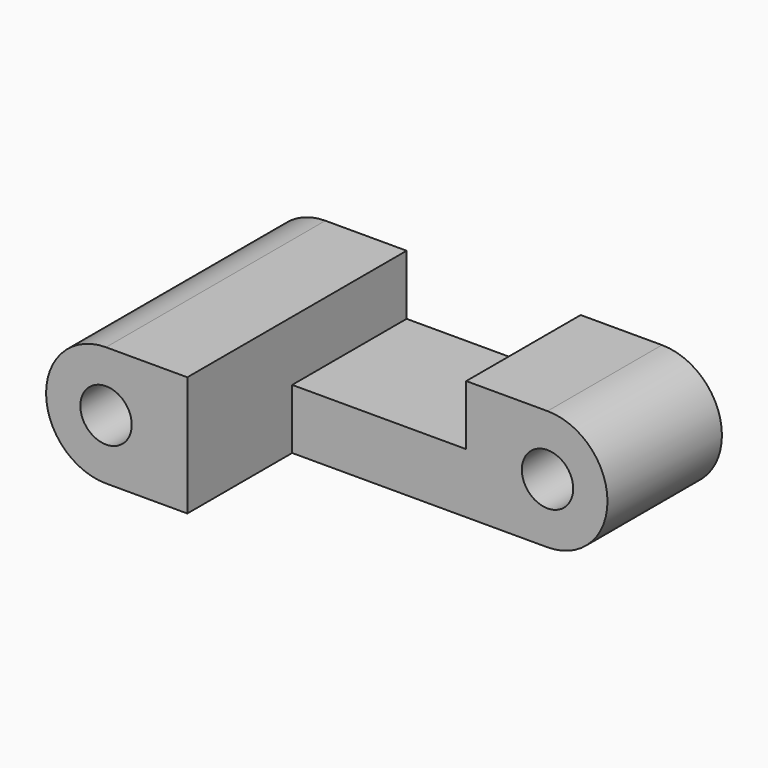
from build123d import *

# Parameters (mm, degrees)
F0_R     = 1.5
F1_DEPTH = 8
F2_W     = 14.905
F2_H     = 7.65
F3_DEPTH = 7.001
F4_W     = 10.16
F4_H     = 12.091013
F5_DEPTH = 8.351


with BuildPart() as f1:
    # F0 (on Front) → F1 (new body, symmetric)
    with BuildSketch(Plane.XZ):
        with BuildLine():
            Line((9.825, 3.5), (-9.825, 3.5))
            ThreePointArc((-9.825, 3.5), (-13.325, 0), (-9.825, -3.5))
            Line((-9.825, -3.5), (9.825, -3.5))
            ThreePointArc((9.825, -3.5), (13.325, 0), (9.825, 3.5))
        make_face()
        with Locations((-9.825, 0)):
            Circle(F0_R, mode=Mode.SUBTRACT)
        with Locations((9.825, 0)):
            Circle(F0_R, mode=Mode.SUBTRACT)
    extrude(amount=F1_DEPTH, both=True)

    # F2 (on face) → F3 (cut, through all)
    with BuildSketch(Plane.XY.offset(3.5)):
        Polygon((27.112617, -0.35), (9.825, -0.35), (9.825, -8), (-5.08, -8), (-5.08, -17.684488), (27.112617, -17.684488), align=None)
        with Locations((2.3725, -4.175)):
            Rectangle(F2_W, F2_H)
    extrude(amount=-F3_DEPTH, mode=Mode.SUBTRACT)

    # F4 (on face) → F5 (cut, through all)
    with BuildSketch(Plane.XZ.offset(0.35)):
        with Locations((0, 6.045507)):
            Rectangle(F4_W, F4_H)
    extrude(amount=-F5_DEPTH, mode=Mode.SUBTRACT)


solid = f1.part
